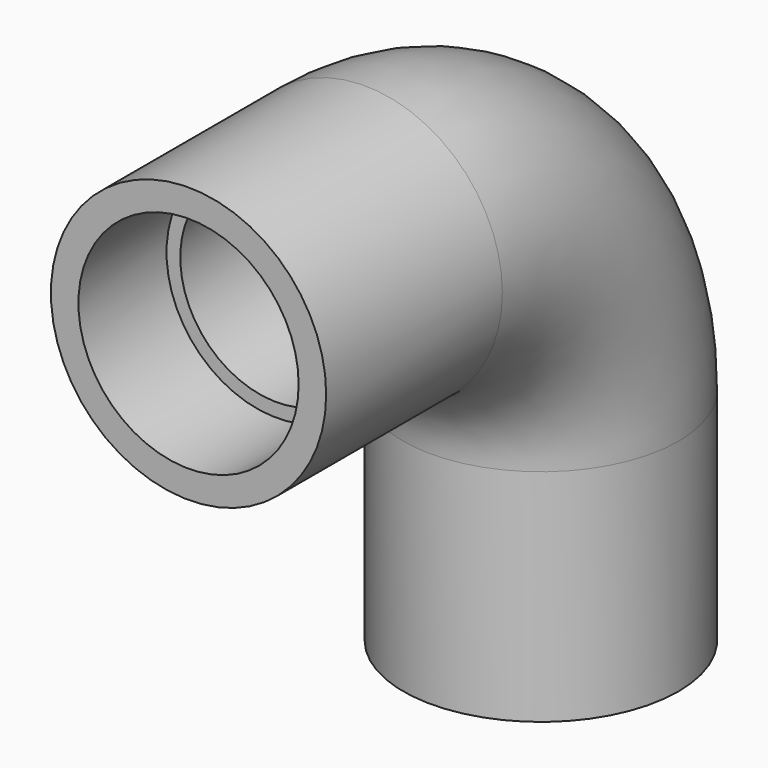
from build123d import *

# Parameters (mm, degrees)
F0_R     = 15.875
F0_R_2   = 11.1125
F3_R     = 12.7
F4_DEPTH = 12.7
F5_R     = 12.7
F5_R_2   = 11.1125
F6_DEPTH = 12.7


with BuildPart() as f2:
    # F2: sweep along a path in F1
    with BuildLine(Plane.YZ) as f2_path:
        Line((0, 0), (25.4, 0))
        ThreePointArc((25.4, 0), (43.3605122421, -7.4394877579), (50.8, -25.4))
        Line((50.8, -25.4), (50.8, -50.8))
    # F0 (on Front) → F2 (sweep)
    with BuildSketch(Plane.XZ):
        Circle(F0_R)
        Circle(F0_R_2, mode=Mode.SUBTRACT)
    sweep(path=f2_path.line)

    # F3 (on Front) → F4 (cut)
    with BuildSketch(Plane.XZ):
        Circle(F3_R)
    extrude(amount=-F4_DEPTH, mode=Mode.SUBTRACT)

    # F5 (on face) → F6 (cut)
    with BuildSketch(Plane(origin=(0, 0, -50.8), x_dir=(1, 0, 0), z_dir=(0, 0, -1))):
        with Locations((0, -50.8)):
            Circle(F5_R)
        with Locations((0, -50.8)):
            Circle(F5_R_2, mode=Mode.SUBTRACT)
    extrude(amount=-F6_DEPTH, mode=Mode.SUBTRACT)


solid = f2.part
